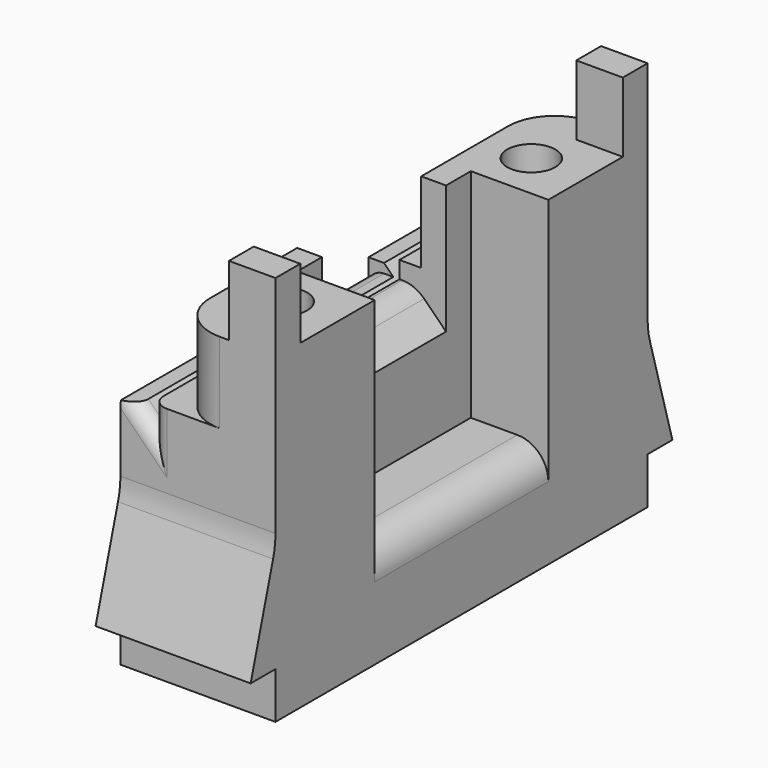
from build123d import *

# Parameters (mm, degrees)
PAD_DEPTH       = 15
SKETCH022_W     = 3
SKETCH022_H     = 2
PAD003_DEPTH    = 4.5
SKETCH024_W     = 14
SKETCH024_H     = 14
POCKET001_DEPTH = 5
SKETCH025_W     = 6.3
SKETCH025_H     = 10
POCKET002_DEPTH = 5.001
SKETCH028_R     = 1.55
POCKET005_DEPTH = 20.701
POCKET006_DEPTH = 4
CHAMFER001_SIZE = 2
FILLET001_R     = 2
FILLET006_R     = 1
FILLET008_R     = 1
FILLET009_R     = 3
FILLET010_R     = 2
PAD005_DEPTH    = 10
FILLET011_R     = 5


with BuildPart() as part:
    # Sketch → Pad (new body, symmetric)
    with BuildSketch(Plane.XZ):
        Polygon((0, 0), (10, 0), (10, 20.7), (3.4, 20.7), (3.4, 15.5), (2, 15.5), (2, 14), (1, 15), (0, 15), align=None)
    extrude(amount=PAD_DEPTH, both=True)

    # Sketch022 → Pad003 (new body)
    with BuildSketch(Plane(origin=(0, 0, 20.7), x_dir=(-1, 0, 0), z_dir=(0, 0, 1))):
        with Locations((-8.5, 14)):
            Rectangle(SKETCH022_W, SKETCH022_H)
        with Locations((-8.5, -14)):
            Rectangle(SKETCH022_W, SKETCH022_H)
    extrude(amount=PAD003_DEPTH)

    # Sketch024 → Pocket001 (cut)
    with BuildSketch(Plane(origin=(10, 0, 0), x_dir=(0, 0, 1), z_dir=(1, 0, 0))):
        with Locations((13.7, 0)):
            Rectangle(SKETCH024_W, SKETCH024_H)
    extrude(amount=-POCKET001_DEPTH, mode=Mode.SUBTRACT)

    # Sketch025 → Pocket002 (cut, through all)
    with BuildSketch(Plane(origin=(5, 0, 0), x_dir=(0, 0, 1), z_dir=(1, 0, 0))):
        with Locations((17.55, 0)):
            Rectangle(SKETCH025_W, SKETCH025_H)
    extrude(amount=-POCKET002_DEPTH, mode=Mode.SUBTRACT)

    # Sketch028 → Pocket005 (cut, through all)
    with BuildSketch(Plane(origin=(0, 0, 20.7), x_dir=(-1, 0, 0), z_dir=(0, 0, 1))):
        with Locations((-6.5, 10)):
            Circle(SKETCH028_R)
        with Locations((-6.5, -10)):
            Circle(SKETCH028_R)
    extrude(amount=-POCKET005_DEPTH, mode=Mode.SUBTRACT)

    # Sketch029 → Pocket006 (cut)
    with BuildSketch(Plane(origin=(0, 0, 0), x_dir=(1, 0, 0), z_dir=(0, 0, -1))):
        Polygon((9.3, 11.616581), (9.3, 8.383419), (6.5, 6.766838), (3.7, 8.383419), (3.7, 11.616581), (6.5, 13.233162), align=None)
        Polygon((6.5, -6.766838), (9.3, -8.383419), (9.3, -11.616581), (6.5, -13.233162), (3.7, -11.616581), (3.7, -8.383419), align=None)
    extrude(amount=-POCKET006_DEPTH, mode=Mode.SUBTRACT)

    # Chamfer001
    chamfer001_edges = [part.edges().sort_by_distance(p)[0] for p in [
        (5, 0, 14.4),
    ]]
    chamfer(chamfer001_edges, length=CHAMFER001_SIZE)

    # Fillet001
    fillet001_edges = [part.edges().sort_by_distance(p)[0] for p in [
        (3, 0, 14.4),
    ]]
    fillet(fillet001_edges, radius=FILLET001_R)

    # Fillet006
    fillet006_edges = [part.edges().sort_by_distance(p)[0] for p in [
        (0, 0, 14.4),
    ]]
    fillet(fillet006_edges, radius=FILLET006_R)

    # Fillet008
    fillet008_edges = [part.edges().sort_by_distance(p)[0] for p in [
        (2, -15, 14.75),
        (1.5, -15, 14.5),
        (1.5, 15, 14.5),
        (2, 15, 14.75),
    ]]
    fillet(fillet008_edges, radius=FILLET008_R)

    # Fillet009
    fillet009_edges = [part.edges().sort_by_distance(p)[0] for p in [
        (3.4, -15, 18.1),
        (3.4, 15, 18.1),
    ]]
    fillet(fillet009_edges, radius=FILLET009_R)

    # Fillet010
    fillet010_edges = [part.edges().sort_by_distance(p)[0] for p in [
        (10, 0, 6.7),
    ]]
    fillet(fillet010_edges, radius=FILLET010_R)

    # Sketch030 → Pad005 (new body)
    with BuildSketch(Plane(origin=(10, 0, 0), x_dir=(0, 0, 1), z_dir=(1, 0, 0))):
        Polygon((3, 15), (10, 15), (3, 17), align=None)
        Polygon((3, -17), (10, -15), (3, -15), align=None)
    extrude(amount=-PAD005_DEPTH)

    # Fillet011
    fillet011_edges = [part.edges().sort_by_distance(p)[0] for p in [
        (5, -15, 10),
        (5, 15, 10),
    ]]
    fillet(fillet011_edges, radius=FILLET011_R)


solid = part.part
